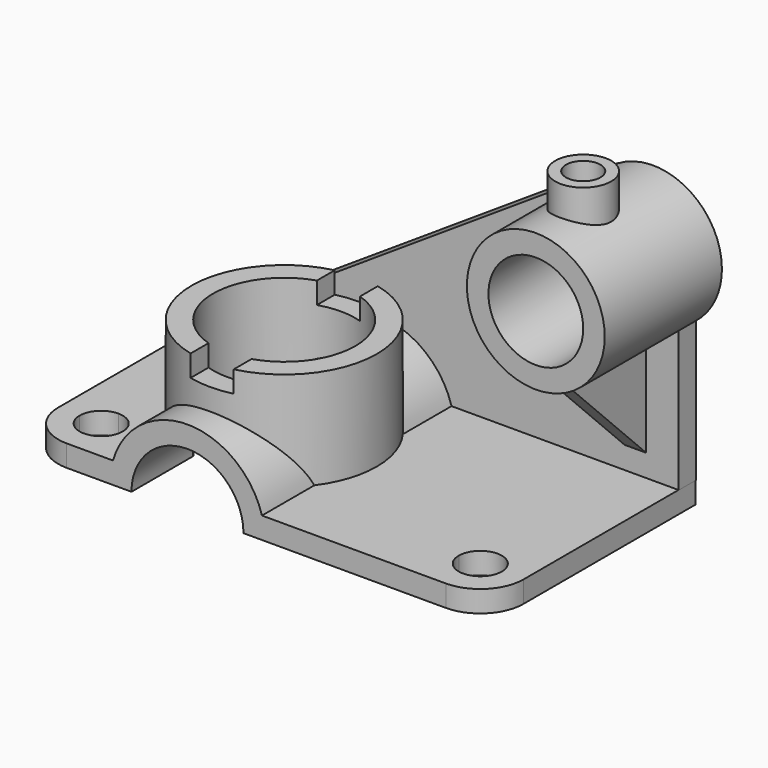
from build123d import *

# Parameters (mm, degrees)
F0_W      = 2160
F0_H      = 1200
F1_DEPTH  = 100
F2_R      = 200
F3_R      = 200
F5_DEPTH  = 100
F6_R      = 430
F7_DEPTH  = 460
F8_W      = 100
F8_H      = 476.0843142867
F9_DEPTH  = 100
F12_DEPTH = 1200
F13_W     = 750
F13_H     = 370
F14_DEPTH = 1200.0010001
F15_R     = 330
F16_DEPTH = 560
F20_DEPTH = 100
F21_DEPTH = 1200.001
F18_R     = 320
F22_DEPTH = 680
F23_R     = 220
F24_DEPTH = 480
F26_R     = 130
F27_DEPTH = 170
F28_R     = 80
F29_DEPTH = 260
F30_R     = 140
F31_DEPTH = 200.0010001
F34_DEPTH = 50
F35_DEPTH = 50


with BuildPart() as f1:
    # F0 (on Top) → F1 (new body)
    with BuildSketch(Plane.XY):
        Rectangle(F0_W, F0_H)
    extrude(amount=F1_DEPTH)

    # F2
    f2_edges = [f1.edges().sort_by_distance(p)[0] for p in [
        (-1080, -600, 50),
    ]]
    fillet(f2_edges, radius=F2_R)

    # F3
    f3_edges = [f1.edges().sort_by_distance(p)[0] for p in [
        (1080, -600, 50),
    ]]
    fillet(f3_edges, radius=F3_R)

    # F4 (on face) → F5 (cut)
    with BuildSketch(Plane.XY.offset(100)):
        with BuildLine():
            Line((980, -400), (880, -400))
            Line((880, -400), (880, -500))
            ThreePointArc((880, -500), (950.7106781187, -470.7106781187), (980, -400))
        make_face()
        with BuildLine():
            ThreePointArc((980, -400), (880, -300), (780, -400))
            Line((780, -400), (880, -400))
            Line((880, -400), (980, -400))
        make_face()
        with BuildLine():
            Line((880, -400), (780, -400))
            ThreePointArc((780, -400), (809.2893218813, -470.7106781187), (880, -500))
            Line((880, -500), (880, -400))
        make_face()
        with BuildLine():
            Line((-880, -400), (-879.7925103978, -300.0002152599))
            ThreePointArc((-879.7925103978, -300.0002152599), (-950.6372813739, -329.2160012424), (-980, -400))
            Line((-980, -400), (-880, -400))
        make_face()
        with BuildLine():
            ThreePointArc((-780, -400), (-809.2160012424, -329.3627186261), (-879.7925103978, -300.0002152599))
            Line((-879.7925103978, -300.0002152599), (-880, -400))
            Line((-880, -400), (-780, -400))
        make_face()
        with BuildLine():
            ThreePointArc((-880, -500), (-809.2893218813, -470.7106781187), (-780, -400))
            Line((-780, -400), (-880, -400))
            Line((-880, -400), (-880, -500))
        make_face()
        with BuildLine():
            Line((-880, -400), (-980, -400))
            ThreePointArc((-980, -400), (-950.7106781187, -470.7106781187), (-880, -500))
            Line((-880, -500), (-880, -400))
        make_face()
        with BuildLine():
            ThreePointArc((-878.9625519891, 99.9989237005), (-808.117781013, 129.214709683), (-778.7550623869, 199.9987084406))
            ThreePointArc((-778.7550623869, 199.9987084406), (-949.3923437608, 270.7827071981), (-878.9625519891, 99.9989237005))
        make_face()
    extrude(amount=-F5_DEPTH, mode=Mode.SUBTRACT)

    # F6 (on face) → F7 (join)
    with BuildSketch(Plane.XY.offset(100)):
        with Locations((-318.6193108559, -39.595939219)):
            Circle(F6_R)
    extrude(amount=F7_DEPTH)

    # F8 (on face) → F9 (cut)
    with BuildSketch(Plane.XY.offset(560)):
        with Locations((-368.6193108559, -277.6380963624)):
            Rectangle(F8_W, F8_H)
        Polygon((-418.6193108559, -39.595939219), (-318.6193108559, -39.595939219), (-218.6193108559, -39.595939219), (-218.6193108559, 463.2783532143), (-418.6193108559, 463.2783532143), align=None)
        with Locations((-268.6193108559, -277.6380963624)):
            Rectangle(F8_W, F8_H)
    extrude(amount=-F9_DEPTH, mode=Mode.SUBTRACT)

    # F11 (on offset) → F12 (join)
    with BuildSketch(Plane.XZ.offset(600)):
        with BuildLine():
            ThreePointArc((40.5883862803, 0), (-64.8531724926, 254.5584412272), (-319.4116137197, 360))
            ThreePointArc((-319.4116137197, 360), (-573.9700549469, -254.5584412272), (40.5883862803, 0))
        make_face()
        with BuildLine():
            ThreePointArc((-59.4116137197, 0), (-503.2593768282, -183.8477631085), (-319.4116137197, 260))
            ThreePointArc((-319.4116137197, 260), (-135.5638506112, 183.8477631085), (-59.4116137197, 0))
        make_face(mode=Mode.SUBTRACT)
    extrude(amount=-F12_DEPTH)

    # F13 (on face) → F14 (cut, through all)
    with BuildSketch(Plane.XZ.offset(600)):
        with Locations((-321.4434087276, -185)):
            Rectangle(F13_W, F13_H)
    extrude(amount=-F14_DEPTH, mode=Mode.SUBTRACT)

    # F15 (on face) → F16 (cut)
    with BuildSketch(Plane.XY.offset(560)):
        with Locations((-318.6193108559, -39.595939219)):
            Circle(F15_R)
    extrude(amount=-F16_DEPTH, mode=Mode.SUBTRACT)

    # F19 (on offset) → F20 (join)
    with BuildSketch(Plane.XZ.offset(-600)):
        Polygon((1080.9426307678, 752.3837089539), (719.1615700722, 1278.3174514771), (-1078.9614915848, 99.5009914041), (1080.9426307678, 99.5009914041), align=None)
    extrude(amount=F20_DEPTH)

    # F11 (on offset) → F21 (cut, through all)
    with BuildSketch(Plane.XZ.offset(600)):
        with BuildLine():
            ThreePointArc((-59.4116137197, 0), (-135.5638506112, 183.8477631085), (-319.4116137197, 260))
            ThreePointArc((-319.4116137197, 260), (-503.2593768282, -183.8477631085), (-59.4116137197, 0))
        make_face()
    extrude(amount=-F21_DEPTH, mode=Mode.SUBTRACT)

    # F18 (on offset) → F22 (join)
    with BuildSketch(Plane.XZ.offset(-600)):
        with Locations((881.6419839859, 1001.6332864761)):
            Circle(F18_R)
    extrude(amount=F22_DEPTH)

    # F23 (on face) → F24 (cut)
    with BuildSketch(Plane.XZ.offset(80)):
        with Locations((881.6419839859, 1001.6332864761)):
            Circle(F23_R)
    extrude(amount=-F24_DEPTH, mode=Mode.SUBTRACT)

    # F26 (on offset) → F27 (join)
    with BuildSketch(Plane.XY.offset(1460)):
        with Locations((878.4069418907, 199.221804738)):
            Circle(F26_R)
    extrude(amount=-F27_DEPTH)

    # F28 (on face) → F29 (cut)
    with BuildSketch(Plane.XY.offset(1460)):
        with Locations((878.4069418907, 199.221804738)):
            Circle(F28_R)
    extrude(amount=-F29_DEPTH, mode=Mode.SUBTRACT)

    # F30 (on face) → F31 (cut, through all)
    with BuildSketch(Plane.XZ.offset(-400)):
        with Locations((881.6419839859, 1001.6332864761)):
            Circle(F30_R)
    extrude(amount=-F31_DEPTH, mode=Mode.SUBTRACT)

    # F33 (on offset) → F34 (join)
    with BuildSketch(Plane.YZ.offset(880)):
        Polygon((502.2943615913, 684.2531561852), (24.5764162391, 680.1151633263), (502.2943615913, 200.7880210876), align=None)
    extrude(amount=F34_DEPTH)

    # F33 (on offset) → F35 (join)
    with BuildSketch(Plane.YZ.offset(880)):
        Polygon((502.2943615913, 684.2531561852), (24.5764162391, 680.1151633263), (502.2943615913, 200.7880210876), align=None)
    extrude(amount=-F35_DEPTH)


solid = f1.part
